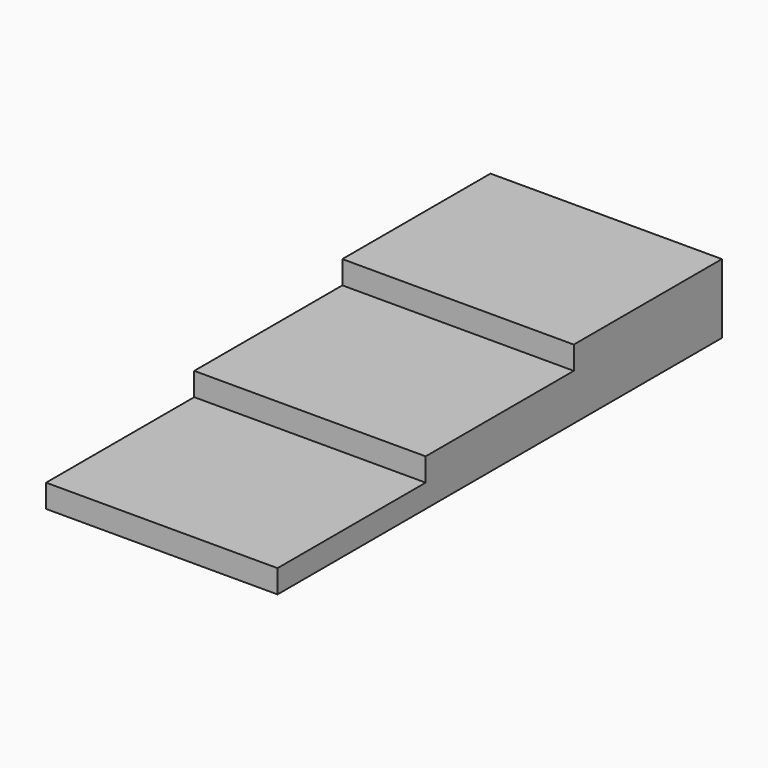
from build123d import *

# Parameters (mm, degrees)
F0_W     = 12.7
F0_H     = 10.16
F1_DEPTH = 1.27
F2_DEPTH = 2.54
F3_DEPTH = 3.81


with BuildPart() as f1:
    # F0 (on Top) → F1 (new body)
    with BuildSketch(Plane.XY):
        with Locations((6.35, 5.08)):
            Rectangle(F0_W, F0_H)
    extrude(amount=F1_DEPTH)

    # F0 (on Top) → F2 (join)
    with BuildSketch(Plane.XY):
        with Locations((6.35, 15.24)):
            Rectangle(F0_W, F0_H)
    extrude(amount=F2_DEPTH)

    # F0 (on Top) → F3 (join)
    with BuildSketch(Plane.XY):
        with Locations((6.35, 25.4)):
            Rectangle(F0_W, F0_H)
    extrude(amount=F3_DEPTH)


solid = f1.part
